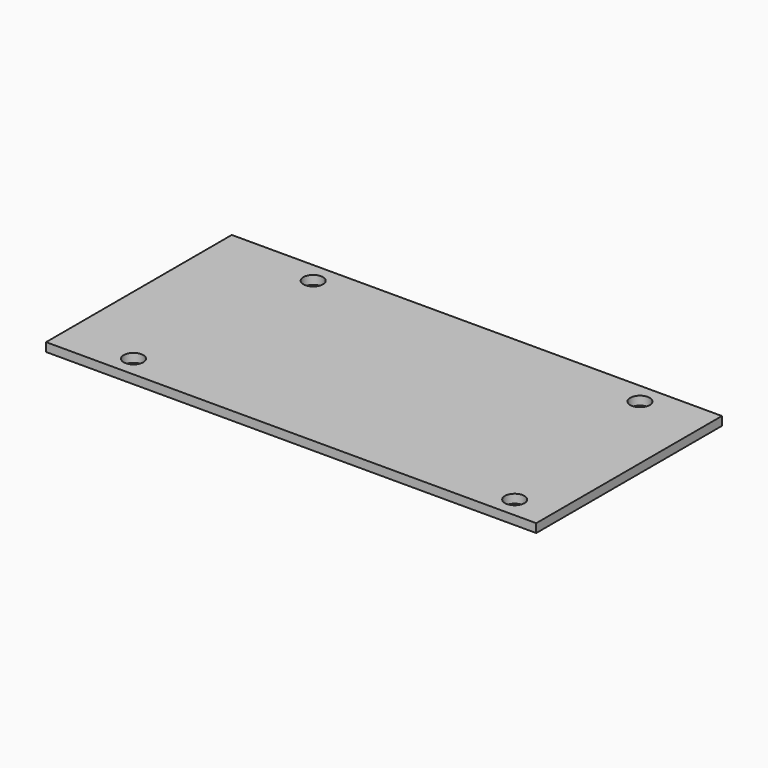
from build123d import *

# Parameters (mm, degrees)
F0_W     = 90
F0_H     = 42.62
F1_DEPTH = 1.6
F2_D     = 3.6


with BuildPart() as f1:
    # F0 (on Top) → F1 (new body)
    with BuildSketch(Plane.XY):
        with Locations((45, 21.31)):
            Rectangle(F0_W, F0_H)
    extrude(amount=F1_DEPTH)

    # F2 (through all)
    with Locations(Plane(origin=(0, 0, 0), x_dir=(1, 0, 0), z_dir=(0, 0, -1))):
        with Locations((18, -38.81), (13, -3.81), (78, -38.81), (83, -3.81)):
            Hole(F2_D / 2)


solid = f1.part
